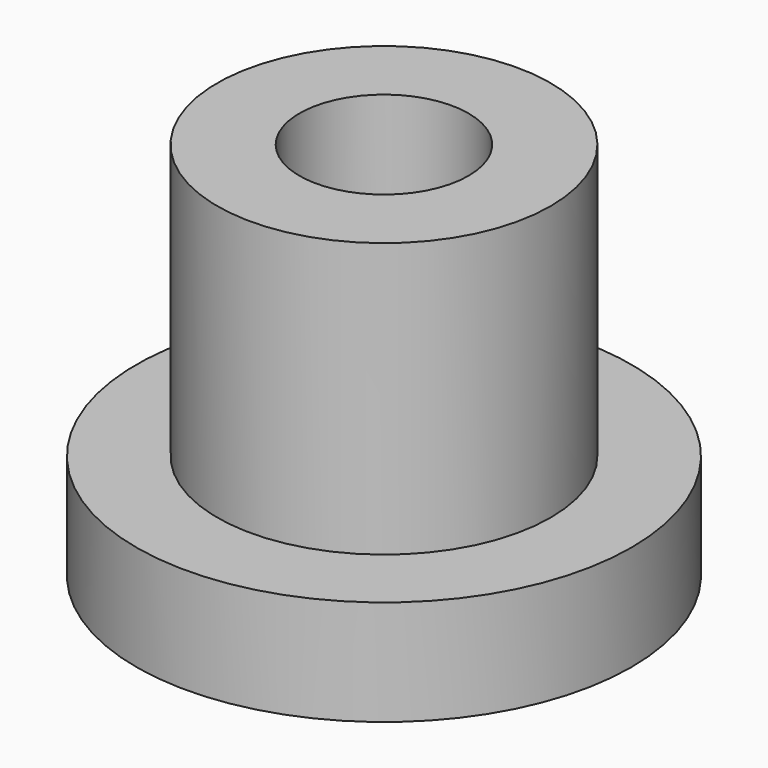
from build123d import *

# Parameters (mm, degrees)
F0_R     = 25.687791
F0_R_2   = 17.294442
F1_DEPTH = 10.922
F2_DEPTH = 39.37
F3_R     = 8.773481
F4_DEPTH = 19.812


with BuildPart() as f1:
    # F0 (on Top) → F1 (new body)
    with BuildSketch(Plane.XY):
        Circle(F0_R)
        Circle(F0_R_2, mode=Mode.SUBTRACT)
        Circle(F0_R_2)
    extrude(amount=F1_DEPTH)

    # F0 (on Top) → F2 (join)
    with BuildSketch(Plane.XY):
        Circle(F0_R_2)
    extrude(amount=F2_DEPTH)

    # F3 (on face) → F4 (cut)
    with BuildSketch(Plane.XY.offset(39.37)):
        Circle(F3_R)
    extrude(amount=-F4_DEPTH, mode=Mode.SUBTRACT)


solid = f1.part
